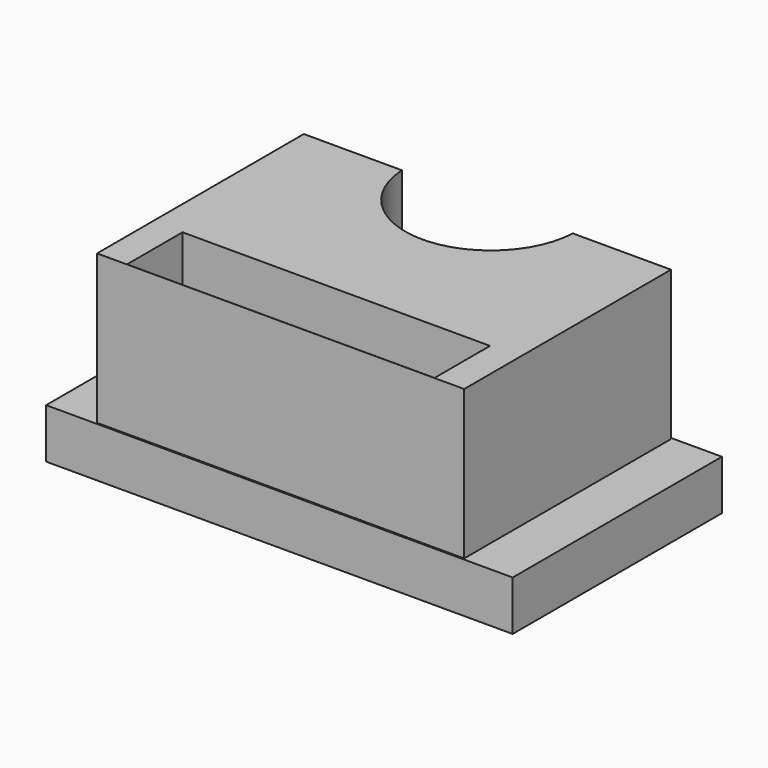
from build123d import *

# Parameters (mm, degrees)
F0_W     = 119.197724
F0_H     = 66.822962
F1_DEPTH = 12.7
F2_W     = 93.797724
F2_H     = 66.037954
F3_DEPTH = 50.8
F4_R     = 21.859631
F5_DEPTH = 123.444
F6_W     = 78.557724
F6_H     = 17.734622
F7_DEPTH = 38.1


with BuildPart() as f1:
    # F0 (on Top) → F1 (new body)
    with BuildSketch(Plane.XY):
        Rectangle(F0_W, F0_H)
    extrude(amount=F1_DEPTH)

    # F2 (on Top) → F3 (join)
    with BuildSketch(Plane.XY):
        Rectangle(F2_W, F2_H)
    extrude(amount=F3_DEPTH)

    # F4 (on Top) → F5 (cut)
    with BuildSketch(Plane.XY):
        with Locations((0, 34.088746)):
            Circle(F4_R)
    extrude(amount=F5_DEPTH, mode=Mode.SUBTRACT)

    # F6 (on face) → F7 (cut)
    with BuildSketch(Plane.XY.offset(50.8)):
        with Locations((0, -24.107311)):
            Rectangle(F6_W, F6_H)
    extrude(amount=-F7_DEPTH, mode=Mode.SUBTRACT)


solid = f1.part
